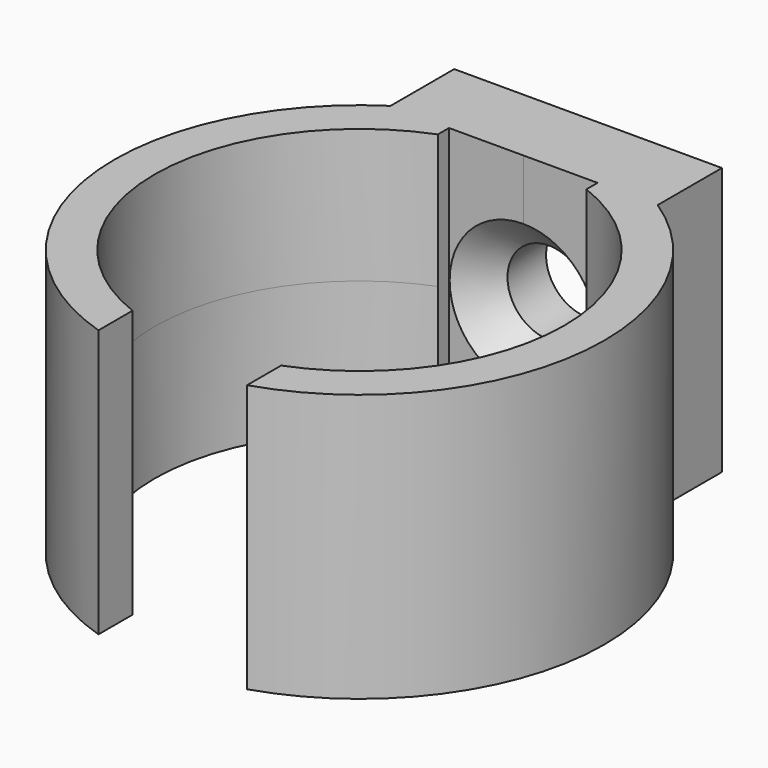
from build123d import *

# Parameters (mm, degrees)
F1_DEPTH       = 5
F1_DEPTH_BACK  = 5
F2_W           = 5.55
F2_H           = 10
F3_DEPTH       = 25
F5_D           = 3.1
F5_CSINK_D     = 5.5
F5_CSINK_ANGLE = 90


with BuildPart() as f1:
    # F0 (on Top) → F1 (new body, two sides)
    with BuildSketch(Plane.XY) as f1_sk:
        with BuildLine():
            Line((5.0199601592, 0), (5.0199601592, 3))
            Line((5.0199601592, 3), (-4.9800398408, 3))
            Line((-4.9800398408, 3), (-4.9800398408, 0.0260473672))
            ThreePointArc((-4.9800398408, 0.0260473672), (0.0238332602, 1.4999689604), (5.0199601592, 0))
        make_face()
        with BuildLine():
            ThreePointArc((9.15, -7.65), (8.0515568512, -3.3031698594), (5.0199601592, 0))
            Line((5.0199601592, 0), (0, 0))
            Line((0, 0), (-4.9800398408, 0))
            Line((-4.9800398408, 0), (-4.9800398408, 0.0260473672))
            ThreePointArc((-4.9800398408, 0.0260473672), (-4.3677875095, -15.6902072282), (9.15, -7.65))
        make_face()
        with BuildLine():
            ThreePointArc((7.65, -7.65), (-5.4093668761, -13.0593668761), (0, 0))
            ThreePointArc((0, 0), (5.4093668761, -2.2406331239), (7.65, -7.65))
        make_face(mode=Mode.SUBTRACT)
        with BuildLine():
            Line((0, 0), (5.0199601592, 0))
            ThreePointArc((5.0199601592, 0), (0.0238332602, 1.4999689604), (-4.9800398408, 0.0260473672))
            Line((-4.9800398408, 0.0260473672), (-4.9800398408, 0))
            Line((-4.9800398408, 0), (0, 0))
        make_face()
    extrude(amount=F1_DEPTH)
    extrude(f1_sk.sketch, amount=-F1_DEPTH_BACK)

    # F2 (on Front) → F3 (cut)
    with BuildSketch(Plane.XZ):
        Rectangle(F2_W, F2_H)
    extrude(amount=F3_DEPTH, mode=Mode.SUBTRACT)

    # F5 (through all)
    with Locations(Plane.XZ):
        with Locations((0, 0)):
            CounterSinkHole(F5_D / 2, F5_CSINK_D / 2, counter_sink_angle=F5_CSINK_ANGLE)


solid = f1.part
